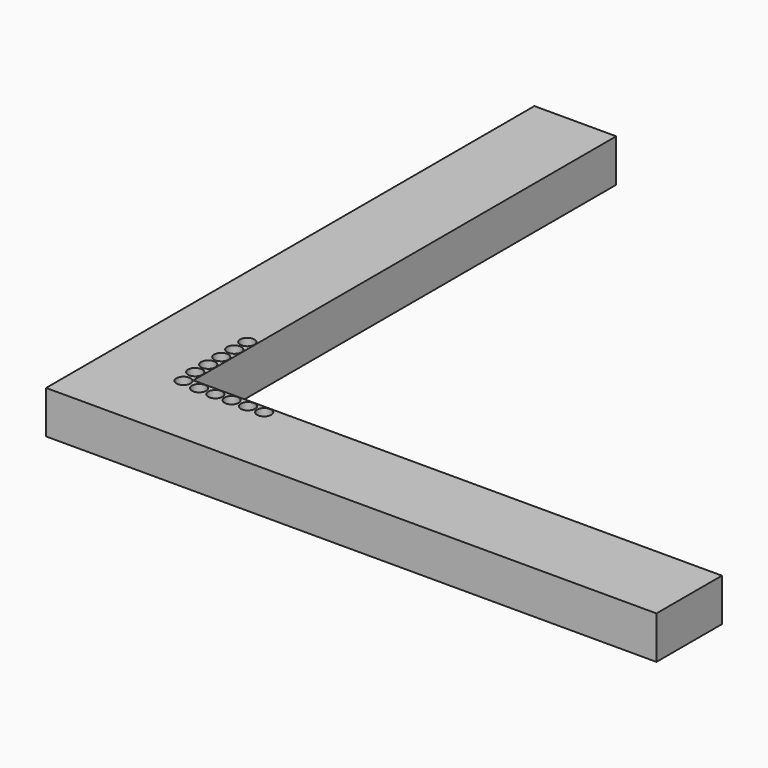
from build123d import *

# Parameters (mm, degrees)
F0_R     = 1.75
F1_DEPTH = 10.5


with BuildPart() as f1:
    # F0 (on Top) → F1 (new body)
    with BuildSketch(Plane.XY):
        Polygon((-75, -75), (75, -75), (75, -55), (75, -54.9), (-54.9, -54.9), (-54.9, 75), (-55, 75), (-75, 75), align=None)
        with Locations((-52, -56.75)):
            Circle(F0_R, mode=Mode.SUBTRACT)
        with Locations((-48, -56.75)):
            Circle(F0_R, mode=Mode.SUBTRACT)
        with Locations((-44, -56.75)):
            Circle(F0_R, mode=Mode.SUBTRACT)
        with Locations((-40, -56.75)):
            Circle(F0_R, mode=Mode.SUBTRACT)
        with Locations((-56.75, -52)):
            Circle(F0_R, mode=Mode.SUBTRACT)
        with Locations((-56.75, -48)):
            Circle(F0_R, mode=Mode.SUBTRACT)
        with Locations((-56.75, -44)):
            Circle(F0_R, mode=Mode.SUBTRACT)
        with Locations((-56.75, -40)):
            Circle(F0_R, mode=Mode.SUBTRACT)
        with Locations((-56.237437, -56.237437)):
            Circle(F0_R, mode=Mode.SUBTRACT)
        with Locations((-36, -56.75)):
            Circle(F0_R, mode=Mode.SUBTRACT)
        with Locations((-56.75, -36)):
            Circle(F0_R, mode=Mode.SUBTRACT)
    extrude(amount=F1_DEPTH)


solid = f1.part
